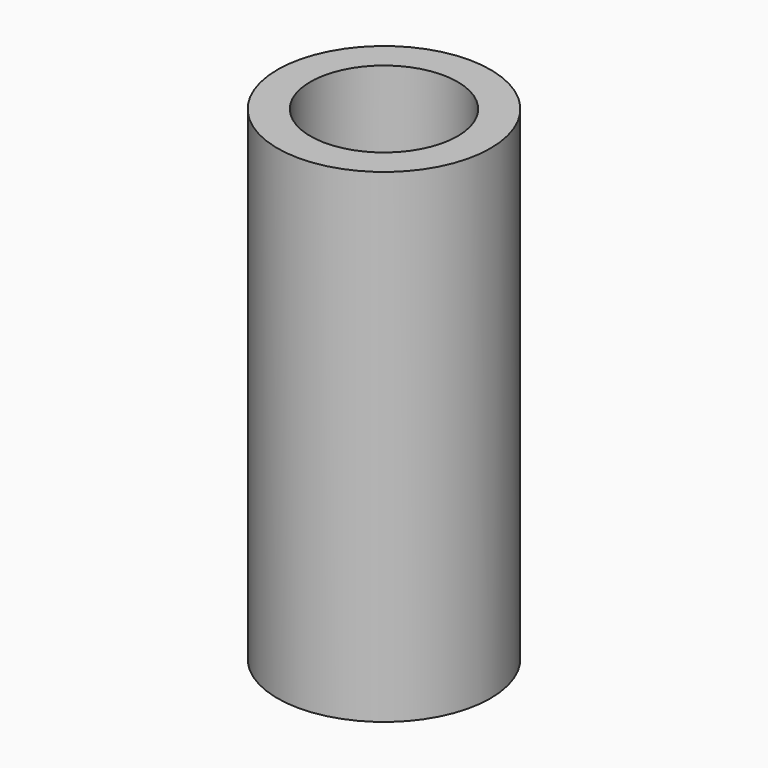
from build123d import *

# Parameters (mm, degrees)
F0_R     = 5.5
F0_R_2   = 3.8
F1_DEPTH = 25
F2_R     = 5.5
F2_R_2   = 3.5
F3_DEPTH = 1.5


with BuildPart() as f1:
    # F0 (on Top) → F1 (new body)
    with BuildSketch(Plane.XY):
        Circle(F0_R)
        Circle(F0_R_2, mode=Mode.SUBTRACT)
    extrude(amount=F1_DEPTH)

    # F2 (on face) → F3 (join)
    with BuildSketch(Plane(origin=(0, 0, 0), x_dir=(1, 0, 0), z_dir=(0, 0, -1))):
        Circle(F2_R)
        Circle(F2_R_2, mode=Mode.SUBTRACT)
    extrude(amount=-F3_DEPTH)


solid = f1.part
